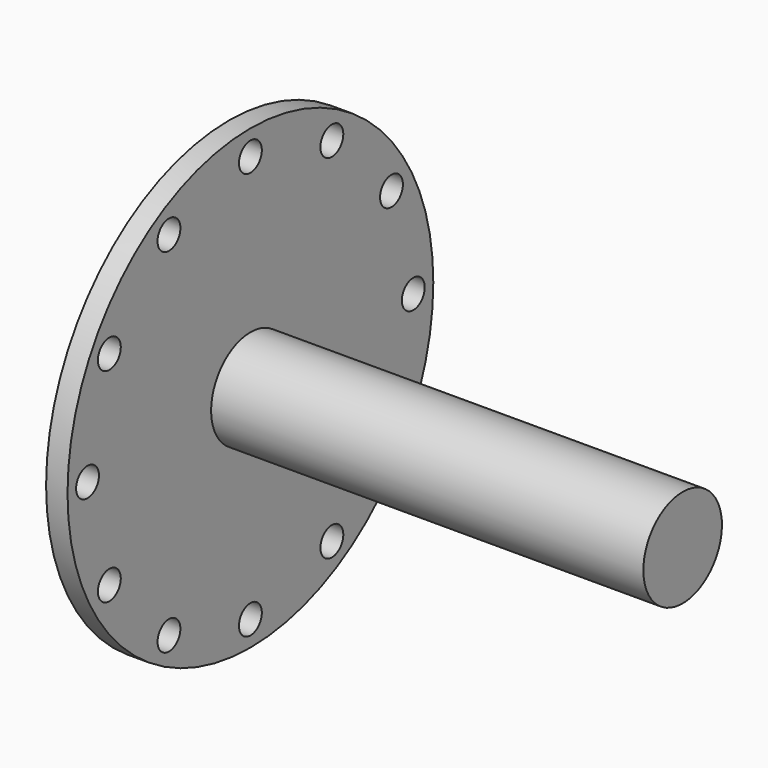
from build123d import *

# Parameters (mm, degrees)
F3_D = 25.4


with BuildPart() as f1:
    # F0 (on Front) → F1 (revolve)
    with BuildSketch(Plane.XZ):
        Polygon((0, 203.2), (0, 0), (403.225, 0), (403.225, 43.65625), (19.05, 43.65625), (19.05, 203.2), align=None)
    revolve(axis=Axis((201.6125, 0, 0), (-1, 0, 0)))

    # F3 (through all)
    with Locations(Plane.YZ.offset(19.05)):
        with Locations((0, 180.975), (90.4875, 156.728947), (156.728947, 90.4875), (180.975, 0), (156.728947, -90.4875), (90.4875, -156.728947), (0, -180.975), (-90.4875, -156.728947), (-156.728947, -90.4875), (-180.975, 0), (-156.728947, 90.4875), (-90.4875, 156.728947)):
            Hole(F3_D / 2)


solid = f1.part
